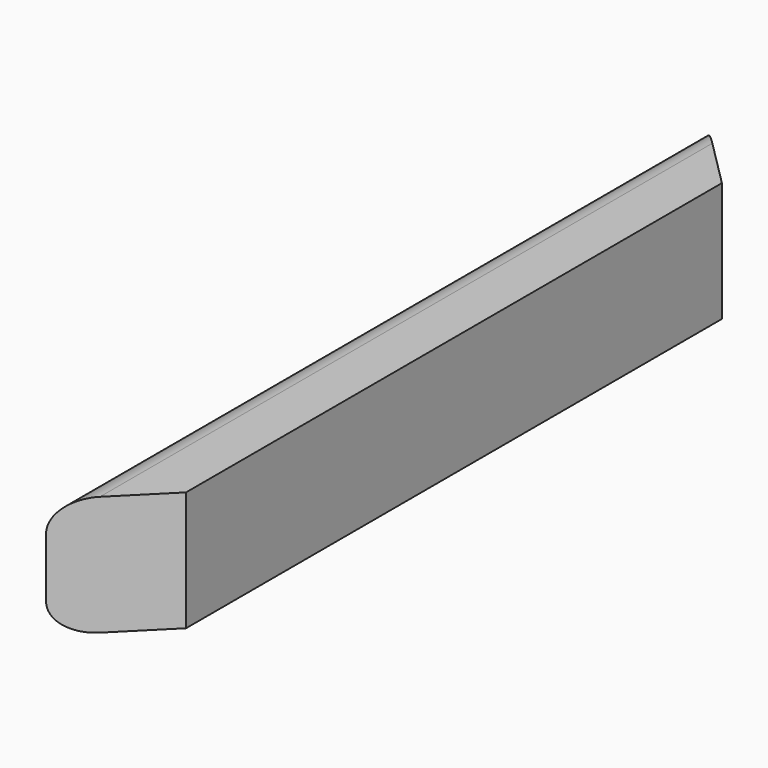
from build123d import *

# Parameters (mm, degrees)
F1_DEPTH = 1016
F3_DEPTH = 127.001
F5_DEPTH = 127.001


with BuildPart() as f1:
    # F0 (on Front) → F1 (new body)
    with BuildSketch(Plane.XZ):
        with BuildLine():
            Line((0, -127), (0, 0))
            Line((0, 0), (-50.8, 0))
            ThreePointArc((-50.8, 0), (-73.25064, -9.29936), (-82.55, -31.75))
            Line((-82.55, -31.75), (-82.55, -95.25))
            ThreePointArc((-82.55, -95.25), (-73.25064, -117.70064), (-50.8, -127))
            Line((-50.8, -127), (0, -127))
        make_face()
    extrude(amount=F1_DEPTH)

    # F2 (on face) → F3 (cut, through all)
    with BuildSketch(Plane.XY):
        Polygon((0, -82.003355), (0, 0), (-82.003355, 0), align=None)
    extrude(amount=-F3_DEPTH, mode=Mode.SUBTRACT)

    # F4 (on face) → F5 (cut, through all)
    with BuildSketch(Plane.XY):
        Polygon((0, -1016), (0, -793.203355), (-222.796645, -1016), align=None)
    extrude(amount=-F5_DEPTH, mode=Mode.SUBTRACT)


solid = f1.part
